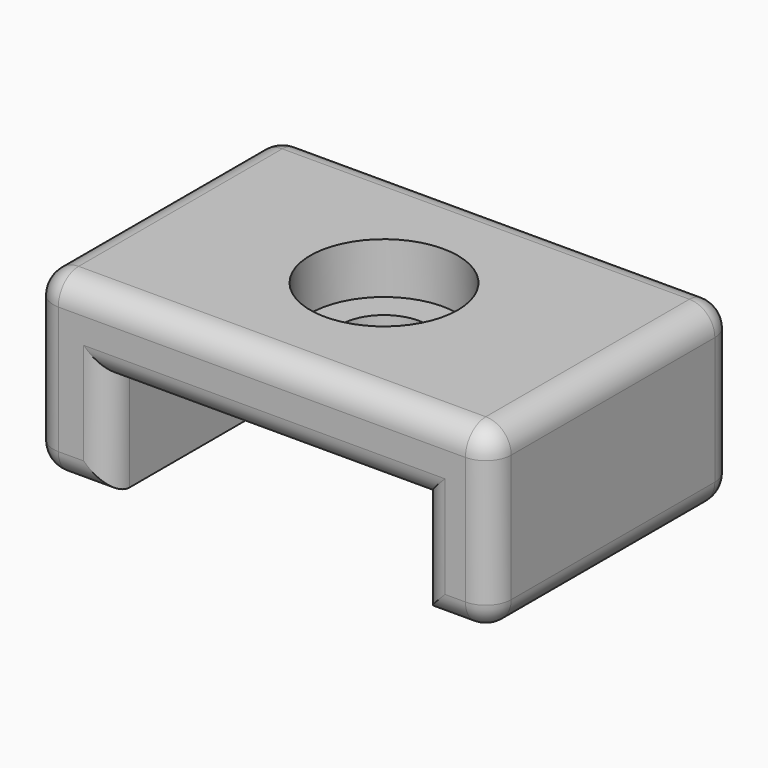
from build123d import *

# Parameters (mm, degrees)
F1_DEPTH = 12
F2_R     = 1.7
F3_DEPTH = 7.001
F2_R_2   = 2.9
F4_DEPTH = 2
F5_R     = 1


with BuildPart() as f1:
    # F0 (on Front) → F1 (new body)
    with BuildSketch(Plane.XZ):
        Polygon((9, -3.5), (9, 3.5), (-9, 3.5), (-9, -3.5), (-6, -3.5), (-6, 0.5), (6.2, 0.5), (6.2, -3.5), align=None)
    extrude(amount=F1_DEPTH)

    # F2 (on face) → F3 (cut, through all)
    with BuildSketch(Plane.XY.offset(3.5)):
        with Locations((0, -6)):
            Circle(F2_R)
    extrude(amount=-F3_DEPTH, mode=Mode.SUBTRACT)

    # F2 (on face) → F4 (cut)
    with BuildSketch(Plane.XY.offset(3.5)):
        with Locations((0, -6)):
            Circle(F2_R_2)
        with Locations((0, -6)):
            Circle(F2_R, mode=Mode.SUBTRACT)
    extrude(amount=-F4_DEPTH, mode=Mode.SUBTRACT)

    # F5
    f5_edges = [f1.edges().sort_by_distance(p)[0] for p in [
        (9, -12, 0),
        (0, -12, 3.5),
        (-9, -12, 0),
        (-7.5, -12, -3.5),
        (-6, -12, -1.5),
        (0.1, -12, 0.5),
        (6.2, -12, -1.5),
        (7.6, -12, -3.5),
        (9, 0, 0),
        (0, 0, 3.5),
        (-9, 0, 0),
        (-7.5, 0, -3.5),
        (-6, 0, -1.5),
        (0.1, 0, 0.5),
        (6.2, 0, -1.5),
        (7.6, 0, -3.5),
        (9, -6, -3.5),
        (-9, -6, -3.5),
        (-9, -6, 3.5),
        (9, -6, 3.5),
    ]]
    fillet(f5_edges, radius=F5_R)


solid = f1.part
